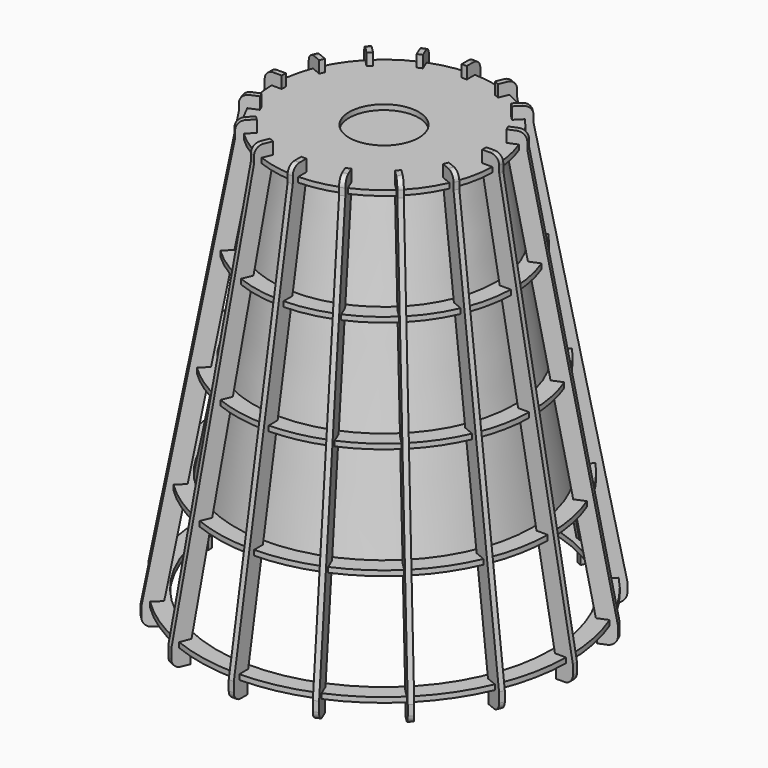
from build123d import *

# Parameters (mm, degrees)
F6_R      = 20.5
F7_DEPTH  = 3
F8_R      = 65.833
F9_DEPTH  = 3
F10_R     = 76.667
F11_DEPTH = 3
F12_R     = 87.5
F13_DEPTH = 3
F14_R     = 98.333
F15_DEPTH = 3
F17_DEPTH = 1.5
F18_COUNT = 16


with BuildPart() as f5:
    # F4 (on Front) → F5 (revolve)
    with BuildSketch(Plane.XZ):
        Polygon((0, 60), (-55, 60), (-65.833333, 0), (0, 0), align=None)
        Polygon((0, 0), (-65.833333, 0), (-76.666667, -60), (0, -60), align=None)
        Polygon((0, -60), (-76.666667, -60), (-87.5, -120), (0, -120), align=None)
    revolve(axis=Axis((0, 0, -30), (0, 0, -1)))


with BuildPart() as f7:
    # F6 (on offset) → F7 (new body)
    with BuildSketch(Plane.XY.offset(60)):
        with BuildLine():
            Line((-61.984921, -1.4), (-64.984921, -1.4))
            ThreePointArc((-64.984921, -1.4), (-63.751043, -12.680871), (-60.573996, -23.575221))
            Line((-60.573996, -23.575221), (-57.802357, -22.427171))
            Line((-57.802357, -22.427171), (-56.730843, -25.014034))
            Line((-56.730843, -25.014034), (-59.502482, -26.162084))
            ThreePointArc((-59.502482, -26.162084), (-54.045525, -36.112065), (-46.941228, -44.961329))
            Line((-46.941228, -44.961329), (-44.819908, -42.840009))
            Line((-44.819908, -42.840009), (-42.840009, -44.819908))
            Line((-42.840009, -44.819908), (-44.961329, -46.941228))
            ThreePointArc((-44.961329, -46.941228), (-36.112065, -54.045525), (-26.162084, -59.502482))
            Line((-26.162084, -59.502482), (-25.014034, -56.730843))
            Line((-25.014034, -56.730843), (-22.427171, -57.802357))
            Line((-22.427171, -57.802357), (-23.575221, -60.573996))
            ThreePointArc((-23.575221, -60.573996), (-12.680871, -63.751043), (-1.4, -64.984921))
            Line((-1.4, -64.984921), (-1.4, -61.984921))
            Line((-1.4, -61.984921), (1.4, -61.984921))
            Line((1.4, -61.984921), (1.4, -64.984921))
            ThreePointArc((1.4, -64.984921), (12.680871, -63.751043), (23.575221, -60.573996))
            Line((23.575221, -60.573996), (22.427171, -57.802357))
            Line((22.427171, -57.802357), (25.014034, -56.730843))
            Line((25.014034, -56.730843), (26.162084, -59.502482))
            ThreePointArc((26.162084, -59.502482), (36.112065, -54.045525), (44.961329, -46.941228))
            Line((44.961329, -46.941228), (42.840009, -44.819908))
            Line((42.840009, -44.819908), (44.819908, -42.840009))
            Line((44.819908, -42.840009), (46.941228, -44.961329))
            ThreePointArc((46.941228, -44.961329), (54.045525, -36.112065), (59.502482, -26.162084))
            Line((59.502482, -26.162084), (56.730843, -25.014034))
            Line((56.730843, -25.014034), (57.802357, -22.427171))
            Line((57.802357, -22.427171), (60.573996, -23.575221))
            ThreePointArc((60.573996, -23.575221), (63.751043, -12.680871), (64.984921, -1.4))
            Line((64.984921, -1.4), (61.984921, -1.4))
            Line((61.984921, -1.4), (61.984921, 1.4))
            Line((61.984921, 1.4), (64.984921, 1.4))
            ThreePointArc((64.984921, 1.4), (63.751043, 12.680871), (60.573996, 23.575221))
            Line((60.573996, 23.575221), (57.802357, 22.427171))
            Line((57.802357, 22.427171), (56.730843, 25.014034))
            Line((56.730843, 25.014034), (59.502482, 26.162084))
            ThreePointArc((59.502482, 26.162084), (54.045525, 36.112065), (46.941228, 44.961329))
            Line((46.941228, 44.961329), (44.819908, 42.840009))
            Line((44.819908, 42.840009), (42.840009, 44.819908))
            Line((42.840009, 44.819908), (44.961329, 46.941228))
            ThreePointArc((44.961329, 46.941228), (36.112065, 54.045525), (26.162084, 59.502482))
            Line((26.162084, 59.502482), (25.014034, 56.730843))
            Line((25.014034, 56.730843), (22.427171, 57.802357))
            Line((22.427171, 57.802357), (23.575221, 60.573996))
            ThreePointArc((23.575221, 60.573996), (12.680871, 63.751043), (1.4, 64.984921))
            Line((1.4, 64.984921), (1.4, 61.984921))
            Line((1.4, 61.984921), (-1.4, 61.984921))
            Line((-1.4, 61.984921), (-1.4, 64.984921))
            ThreePointArc((-1.4, 64.984921), (-12.680871, 63.751043), (-23.575221, 60.573996))
            Line((-23.575221, 60.573996), (-22.427171, 57.802357))
            Line((-22.427171, 57.802357), (-25.014034, 56.730843))
            Line((-25.014034, 56.730843), (-26.162084, 59.502482))
            ThreePointArc((-26.162084, 59.502482), (-36.112065, 54.045525), (-44.961329, 46.941228))
            Line((-44.961329, 46.941228), (-42.840009, 44.819908))
            Line((-42.840009, 44.819908), (-44.819908, 42.840009))
            Line((-44.819908, 42.840009), (-46.941228, 44.961329))
            ThreePointArc((-46.941228, 44.961329), (-54.045525, 36.112065), (-59.502482, 26.162084))
            Line((-59.502482, 26.162084), (-56.730843, 25.014034))
            Line((-56.730843, 25.014034), (-57.802357, 22.427171))
            Line((-57.802357, 22.427171), (-60.573996, 23.575221))
            ThreePointArc((-60.573996, 23.575221), (-63.751043, 12.680871), (-64.984921, 1.4))
            Line((-64.984921, 1.4), (-61.984921, 1.4))
            Line((-61.984921, 1.4), (-61.984921, -1.4))
        make_face()
        Circle(F6_R, mode=Mode.SUBTRACT)
    extrude(amount=F7_DEPTH)


with BuildPart() as f9:
    # F8 (on Top) → F9 (new body)
    with BuildSketch(Plane.XY):
        with BuildLine():
            Line((-72.820076, -1.4), (-75.820076, -1.4))
            ThreePointArc((-75.820076, -1.4), (-74.37589, -14.794284), (-70.584373, -27.721655))
            Line((-70.584373, -27.721655), (-67.812734, -26.573605))
            Line((-67.812734, -26.573605), (-66.741221, -29.160468))
            Line((-66.741221, -29.160468), (-69.512859, -30.308518))
            ThreePointArc((-69.512859, -30.308518), (-63.052835, -42.130557), (-54.602839, -52.62294))
            Line((-54.602839, -52.62294), (-52.481519, -50.50162))
            Line((-52.481519, -50.50162), (-50.50162, -52.481519))
            Line((-50.50162, -52.481519), (-52.62294, -54.602839))
            ThreePointArc((-52.62294, -54.602839), (-42.130557, -63.052835), (-30.308518, -69.512859))
            Line((-30.308518, -69.512859), (-29.160468, -66.741221))
            Line((-29.160468, -66.741221), (-26.573605, -67.812734))
            Line((-26.573605, -67.812734), (-27.721655, -70.584373))
            ThreePointArc((-27.721655, -70.584373), (-14.794284, -74.37589), (-1.4, -75.820076))
            Line((-1.4, -75.820076), (-1.4, -72.820076))
            Line((-1.4, -72.820076), (1.4, -72.820076))
            Line((1.4, -72.820076), (1.4, -75.820076))
            ThreePointArc((1.4, -75.820076), (14.794284, -74.37589), (27.721655, -70.584373))
            Line((27.721655, -70.584373), (26.573605, -67.812734))
            Line((26.573605, -67.812734), (29.160468, -66.741221))
            Line((29.160468, -66.741221), (30.308518, -69.512859))
            ThreePointArc((30.308518, -69.512859), (42.130557, -63.052835), (52.62294, -54.602839))
            Line((52.62294, -54.602839), (50.50162, -52.481519))
            Line((50.50162, -52.481519), (52.481519, -50.50162))
            Line((52.481519, -50.50162), (54.602839, -52.62294))
            ThreePointArc((54.602839, -52.62294), (63.052835, -42.130557), (69.512859, -30.308518))
            Line((69.512859, -30.308518), (66.741221, -29.160468))
            Line((66.741221, -29.160468), (67.812734, -26.573605))
            Line((67.812734, -26.573605), (70.584373, -27.721655))
            ThreePointArc((70.584373, -27.721655), (74.37589, -14.794284), (75.820076, -1.4))
            Line((75.820076, -1.4), (72.820076, -1.4))
            Line((72.820076, -1.4), (72.820076, 1.4))
            Line((72.820076, 1.4), (75.820076, 1.4))
            ThreePointArc((75.820076, 1.4), (74.37589, 14.794284), (70.584373, 27.721655))
            Line((70.584373, 27.721655), (67.812734, 26.573605))
            Line((67.812734, 26.573605), (66.741221, 29.160468))
            Line((66.741221, 29.160468), (69.512859, 30.308518))
            ThreePointArc((69.512859, 30.308518), (63.052835, 42.130557), (54.602839, 52.62294))
            Line((54.602839, 52.62294), (52.481519, 50.50162))
            Line((52.481519, 50.50162), (50.50162, 52.481519))
            Line((50.50162, 52.481519), (52.62294, 54.602839))
            ThreePointArc((52.62294, 54.602839), (42.130557, 63.052835), (30.308518, 69.512859))
            Line((30.308518, 69.512859), (29.160468, 66.741221))
            Line((29.160468, 66.741221), (26.573605, 67.812734))
            Line((26.573605, 67.812734), (27.721655, 70.584373))
            ThreePointArc((27.721655, 70.584373), (14.794284, 74.37589), (1.4, 75.820076))
            Line((1.4, 75.820076), (1.4, 72.820076))
            Line((1.4, 72.820076), (-1.4, 72.820076))
            Line((-1.4, 72.820076), (-1.4, 75.820076))
            ThreePointArc((-1.4, 75.820076), (-14.794284, 74.37589), (-27.721655, 70.584373))
            Line((-27.721655, 70.584373), (-26.573605, 67.812734))
            Line((-26.573605, 67.812734), (-29.160468, 66.741221))
            Line((-29.160468, 66.741221), (-30.308518, 69.512859))
            ThreePointArc((-30.308518, 69.512859), (-42.130557, 63.052835), (-52.62294, 54.602839))
            Line((-52.62294, 54.602839), (-50.50162, 52.481519))
            Line((-50.50162, 52.481519), (-52.481519, 50.50162))
            Line((-52.481519, 50.50162), (-54.602839, 52.62294))
            ThreePointArc((-54.602839, 52.62294), (-63.052835, 42.130557), (-69.512859, 30.308518))
            Line((-69.512859, 30.308518), (-66.741221, 29.160468))
            Line((-66.741221, 29.160468), (-67.812734, 26.573605))
            Line((-67.812734, 26.573605), (-70.584373, 27.721655))
            ThreePointArc((-70.584373, 27.721655), (-74.37589, 14.794284), (-75.820076, 1.4))
            Line((-75.820076, 1.4), (-72.820076, 1.4))
            Line((-72.820076, 1.4), (-72.820076, -1.4))
        make_face()
        Circle(F8_R, mode=Mode.SUBTRACT)
    extrude(amount=F9_DEPTH)


with BuildPart() as f11:
    # F10 (on offset) → F11 (new body)
    with BuildSketch(Plane.XY.offset(-60)):
        with BuildLine():
            Line((-83.666973, -1.4), (-86.655692, -1.4))
            ThreePointArc((-86.655692, -1.4), (-85.001718, -16.907893), (-80.595177, -31.868266))
            Line((-80.595177, -31.868266), (-77.833961, -30.724533))
            Line((-77.833961, -30.724533), (-76.762448, -33.311396))
            Line((-76.762448, -33.311396), (-79.523663, -34.455129))
            ThreePointArc((-79.523663, -34.455129), (-72.060977, -48.149605), (-62.264777, -60.284878))
            Line((-62.264777, -60.284878), (-60.151434, -58.171535))
            Line((-60.151434, -58.171535), (-58.171535, -60.151434))
            Line((-58.171535, -60.151434), (-60.284878, -62.264777))
            ThreePointArc((-60.284878, -62.264777), (-48.149605, -72.060977), (-34.455129, -79.523663))
            Line((-34.455129, -79.523663), (-33.311396, -76.762448))
            Line((-33.311396, -76.762448), (-30.724533, -77.833961))
            Line((-30.724533, -77.833961), (-31.868266, -80.595177))
            ThreePointArc((-31.868266, -80.595177), (-16.907893, -85.001718), (-1.4, -86.655692))
            Line((-1.4, -86.655692), (-1.4, -83.666973))
            Line((-1.4, -83.666973), (1.4, -83.666973))
            Line((1.4, -83.666973), (1.4, -86.655692))
            ThreePointArc((1.4, -86.655692), (16.907893, -85.001718), (31.868266, -80.595177))
            Line((31.868266, -80.595177), (30.724533, -77.833961))
            Line((30.724533, -77.833961), (33.311396, -76.762448))
            Line((33.311396, -76.762448), (34.455129, -79.523663))
            ThreePointArc((34.455129, -79.523663), (48.149605, -72.060977), (60.284878, -62.264777))
            Line((60.284878, -62.264777), (58.171535, -60.151434))
            Line((58.171535, -60.151434), (60.151434, -58.171535))
            Line((60.151434, -58.171535), (62.264777, -60.284878))
            ThreePointArc((62.264777, -60.284878), (72.060977, -48.149605), (79.523663, -34.455129))
            Line((79.523663, -34.455129), (76.762448, -33.311396))
            Line((76.762448, -33.311396), (77.833961, -30.724533))
            Line((77.833961, -30.724533), (80.595177, -31.868266))
            ThreePointArc((80.595177, -31.868266), (85.001718, -16.907893), (86.655692, -1.4))
            Line((86.655692, -1.4), (83.666973, -1.4))
            Line((83.666973, -1.4), (83.666973, 1.4))
            Line((83.666973, 1.4), (86.655692, 1.4))
            ThreePointArc((86.655692, 1.4), (85.001718, 16.907893), (80.595177, 31.868266))
            Line((80.595177, 31.868266), (77.833961, 30.724533))
            Line((77.833961, 30.724533), (76.762448, 33.311396))
            Line((76.762448, 33.311396), (79.523663, 34.455129))
            ThreePointArc((79.523663, 34.455129), (72.060977, 48.149605), (62.264777, 60.284878))
            Line((62.264777, 60.284878), (60.151434, 58.171535))
            Line((60.151434, 58.171535), (58.171535, 60.151434))
            Line((58.171535, 60.151434), (60.284878, 62.264777))
            ThreePointArc((60.284878, 62.264777), (48.149605, 72.060977), (34.455129, 79.523663))
            Line((34.455129, 79.523663), (33.311396, 76.762448))
            Line((33.311396, 76.762448), (30.724533, 77.833961))
            Line((30.724533, 77.833961), (31.868266, 80.595177))
            ThreePointArc((31.868266, 80.595177), (16.907893, 85.001718), (1.4, 86.655692))
            Line((1.4, 86.655692), (1.4, 83.666973))
            Line((1.4, 83.666973), (-1.4, 83.666973))
            Line((-1.4, 83.666973), (-1.4, 86.655692))
            ThreePointArc((-1.4, 86.655692), (-16.907893, 85.001718), (-31.868266, 80.595177))
            Line((-31.868266, 80.595177), (-30.724533, 77.833961))
            Line((-30.724533, 77.833961), (-33.311396, 76.762448))
            Line((-33.311396, 76.762448), (-34.455129, 79.523663))
            ThreePointArc((-34.455129, 79.523663), (-48.149605, 72.060977), (-60.284878, 62.264777))
            Line((-60.284878, 62.264777), (-58.171535, 60.151434))
            Line((-58.171535, 60.151434), (-60.151434, 58.171535))
            Line((-60.151434, 58.171535), (-62.264777, 60.284878))
            ThreePointArc((-62.264777, 60.284878), (-72.060977, 48.149605), (-79.523663, 34.455129))
            Line((-79.523663, 34.455129), (-76.762448, 33.311396))
            Line((-76.762448, 33.311396), (-77.833961, 30.724533))
            Line((-77.833961, 30.724533), (-80.595177, 31.868266))
            ThreePointArc((-80.595177, 31.868266), (-85.001718, 16.907893), (-86.655692, 1.4))
            Line((-86.655692, 1.4), (-83.666973, 1.4))
            Line((-83.666973, 1.4), (-83.666973, -1.4))
        make_face()
        Circle(F10_R, mode=Mode.SUBTRACT)
    extrude(amount=F11_DEPTH)


with BuildPart() as f13:
    # F12 (on offset) → F13 (new body)
    with BuildSketch(Plane.XY.offset(-120)):
        with BuildLine():
            Line((-94.489948, -1.4), (-97.489948, -1.4))
            ThreePointArc((-97.489948, -1.4), (-95.626565, -19.021306), (-90.604725, -36.014357))
            Line((-90.604725, -36.014357), (-87.833086, -34.866306))
            Line((-87.833086, -34.866306), (-86.761572, -37.453169))
            Line((-86.761572, -37.453169), (-89.533211, -38.601219))
            ThreePointArc((-89.533211, -38.601219), (-81.068287, -54.168098), (-69.925753, -67.945854))
            Line((-69.925753, -67.945854), (-67.804433, -65.824534))
            Line((-67.804433, -65.824534), (-65.824534, -67.804433))
            Line((-65.824534, -67.804433), (-67.945854, -69.925753))
            ThreePointArc((-67.945854, -69.925753), (-54.168098, -81.068287), (-38.601219, -89.533211))
            Line((-38.601219, -89.533211), (-37.453169, -86.761572))
            Line((-37.453169, -86.761572), (-34.866306, -87.833086))
            Line((-34.866306, -87.833086), (-36.014357, -90.604725))
            ThreePointArc((-36.014357, -90.604725), (-19.021306, -95.626565), (-1.4, -97.489948))
            Line((-1.4, -97.489948), (-1.4, -94.489948))
            Line((-1.4, -94.489948), (1.4, -94.489948))
            Line((1.4, -94.489948), (1.4, -97.489948))
            ThreePointArc((1.4, -97.489948), (19.021306, -95.626565), (36.014357, -90.604725))
            Line((36.014357, -90.604725), (34.866306, -87.833086))
            Line((34.866306, -87.833086), (37.453169, -86.761572))
            Line((37.453169, -86.761572), (38.601219, -89.533211))
            ThreePointArc((38.601219, -89.533211), (54.168098, -81.068287), (67.945854, -69.925753))
            Line((67.945854, -69.925753), (65.824534, -67.804433))
            Line((65.824534, -67.804433), (67.804433, -65.824534))
            Line((67.804433, -65.824534), (69.925753, -67.945854))
            ThreePointArc((69.925753, -67.945854), (81.068287, -54.168098), (89.533211, -38.601219))
            Line((89.533211, -38.601219), (86.761572, -37.453169))
            Line((86.761572, -37.453169), (87.833086, -34.866306))
            Line((87.833086, -34.866306), (90.604725, -36.014357))
            ThreePointArc((90.604725, -36.014357), (95.626565, -19.021306), (97.489948, -1.4))
            Line((97.489948, -1.4), (94.489948, -1.4))
            Line((94.489948, -1.4), (94.489948, 1.4))
            Line((94.489948, 1.4), (97.489948, 1.4))
            ThreePointArc((97.489948, 1.4), (95.626565, 19.021306), (90.604725, 36.014357))
            Line((90.604725, 36.014357), (87.833086, 34.866306))
            Line((87.833086, 34.866306), (86.761572, 37.453169))
            Line((86.761572, 37.453169), (89.533211, 38.601219))
            ThreePointArc((89.533211, 38.601219), (81.068287, 54.168098), (69.925753, 67.945854))
            Line((69.925753, 67.945854), (67.804433, 65.824534))
            Line((67.804433, 65.824534), (65.824534, 67.804433))
            Line((65.824534, 67.804433), (67.945854, 69.925753))
            ThreePointArc((67.945854, 69.925753), (54.168098, 81.068287), (38.601219, 89.533211))
            Line((38.601219, 89.533211), (37.453169, 86.761572))
            Line((37.453169, 86.761572), (34.866306, 87.833086))
            Line((34.866306, 87.833086), (36.014357, 90.604725))
            ThreePointArc((36.014357, 90.604725), (19.021306, 95.626565), (1.4, 97.489948))
            Line((1.4, 97.489948), (1.4, 94.489948))
            Line((1.4, 94.489948), (-1.4, 94.489948))
            Line((-1.4, 94.489948), (-1.4, 97.489948))
            ThreePointArc((-1.4, 97.489948), (-19.021306, 95.626565), (-36.014357, 90.604725))
            Line((-36.014357, 90.604725), (-34.866306, 87.833086))
            Line((-34.866306, 87.833086), (-37.453169, 86.761572))
            Line((-37.453169, 86.761572), (-38.601219, 89.533211))
            ThreePointArc((-38.601219, 89.533211), (-54.168098, 81.068287), (-67.945854, 69.925753))
            Line((-67.945854, 69.925753), (-65.824534, 67.804433))
            Line((-65.824534, 67.804433), (-67.804433, 65.824534))
            Line((-67.804433, 65.824534), (-69.925753, 67.945854))
            ThreePointArc((-69.925753, 67.945854), (-81.068287, 54.168098), (-89.533211, 38.601219))
            Line((-89.533211, 38.601219), (-86.761572, 37.453169))
            Line((-86.761572, 37.453169), (-87.833086, 34.866306))
            Line((-87.833086, 34.866306), (-90.604725, 36.014357))
            ThreePointArc((-90.604725, 36.014357), (-95.626565, 19.021306), (-97.489948, 1.4))
            Line((-97.489948, 1.4), (-94.489948, 1.4))
            Line((-94.489948, 1.4), (-94.489948, -1.4))
        make_face()
        Circle(F12_R, mode=Mode.SUBTRACT)
    extrude(amount=F13_DEPTH)


with BuildPart() as f15:
    # F14 (on offset) → F15 (new body)
    with BuildSketch(Plane.XY.offset(-180)):
        with BuildLine():
            Line((-105.323953, -1.4), (-108.323953, -1.4))
            ThreePointArc((-108.323953, -1.4), (-106.251412, -21.13472), (-100.61404, -40.160351))
            Line((-100.61404, -40.160351), (-97.842402, -39.012301))
            Line((-97.842402, -39.012301), (-96.770888, -41.599163))
            Line((-96.770888, -41.599163), (-99.542527, -42.747214))
            ThreePointArc((-99.542527, -42.747214), (-90.075598, -60.18659), (-77.586552, -75.606653))
            Line((-77.586552, -75.606653), (-75.465231, -73.485332))
            Line((-75.465231, -73.485332), (-73.485332, -75.465231))
            Line((-73.485332, -75.465231), (-75.606653, -77.586552))
            ThreePointArc((-75.606653, -77.586552), (-60.18659, -90.075598), (-42.747214, -99.542527))
            Line((-42.747214, -99.542527), (-41.599163, -96.770888))
            Line((-41.599163, -96.770888), (-39.012301, -97.842402))
            Line((-39.012301, -97.842402), (-40.160351, -100.61404))
            ThreePointArc((-40.160351, -100.61404), (-21.13472, -106.251412), (-1.4, -108.323953))
            Line((-1.4, -108.323953), (-1.4, -105.323953))
            Line((-1.4, -105.323953), (1.4, -105.323953))
            Line((1.4, -105.323953), (1.4, -108.323953))
            ThreePointArc((1.4, -108.323953), (21.13472, -106.251412), (40.160351, -100.61404))
            Line((40.160351, -100.61404), (39.012301, -97.842402))
            Line((39.012301, -97.842402), (41.599163, -96.770888))
            Line((41.599163, -96.770888), (42.747214, -99.542527))
            ThreePointArc((42.747214, -99.542527), (60.18659, -90.075598), (75.606653, -77.586552))
            Line((75.606653, -77.586552), (73.485332, -75.465231))
            Line((73.485332, -75.465231), (75.465231, -73.485332))
            Line((75.465231, -73.485332), (77.586552, -75.606653))
            ThreePointArc((77.586552, -75.606653), (90.075598, -60.18659), (99.542527, -42.747214))
            Line((99.542527, -42.747214), (96.770888, -41.599163))
            Line((96.770888, -41.599163), (97.842402, -39.012301))
            Line((97.842402, -39.012301), (100.61404, -40.160351))
            ThreePointArc((100.61404, -40.160351), (106.251412, -21.13472), (108.323953, -1.4))
            Line((108.323953, -1.4), (105.323953, -1.4))
            Line((105.323953, -1.4), (105.323953, 1.4))
            Line((105.323953, 1.4), (108.323953, 1.4))
            ThreePointArc((108.323953, 1.4), (106.251412, 21.13472), (100.61404, 40.160351))
            Line((100.61404, 40.160351), (97.842402, 39.012301))
            Line((97.842402, 39.012301), (96.770888, 41.599163))
            Line((96.770888, 41.599163), (99.542527, 42.747214))
            ThreePointArc((99.542527, 42.747214), (90.075598, 60.18659), (77.586552, 75.606653))
            Line((77.586552, 75.606653), (75.465231, 73.485332))
            Line((75.465231, 73.485332), (73.485332, 75.465231))
            Line((73.485332, 75.465231), (75.606653, 77.586552))
            ThreePointArc((75.606653, 77.586552), (60.18659, 90.075598), (42.747214, 99.542527))
            Line((42.747214, 99.542527), (41.599163, 96.770888))
            Line((41.599163, 96.770888), (39.012301, 97.842402))
            Line((39.012301, 97.842402), (40.160351, 100.61404))
            ThreePointArc((40.160351, 100.61404), (21.13472, 106.251412), (1.4, 108.323953))
            Line((1.4, 108.323953), (1.4, 105.323953))
            Line((1.4, 105.323953), (-1.4, 105.323953))
            Line((-1.4, 105.323953), (-1.4, 108.323953))
            ThreePointArc((-1.4, 108.323953), (-21.13472, 106.251412), (-40.160351, 100.61404))
            Line((-40.160351, 100.61404), (-39.012301, 97.842402))
            Line((-39.012301, 97.842402), (-41.599163, 96.770888))
            Line((-41.599163, 96.770888), (-42.747214, 99.542527))
            ThreePointArc((-42.747214, 99.542527), (-60.18659, 90.075598), (-75.606653, 77.586552))
            Line((-75.606653, 77.586552), (-73.485332, 75.465231))
            Line((-73.485332, 75.465231), (-75.465231, 73.485332))
            Line((-75.465231, 73.485332), (-77.586552, 75.606653))
            ThreePointArc((-77.586552, 75.606653), (-90.075598, 60.18659), (-99.542527, 42.747214))
            Line((-99.542527, 42.747214), (-96.770888, 41.599163))
            Line((-96.770888, 41.599163), (-97.842402, 39.012301))
            Line((-97.842402, 39.012301), (-100.61404, 40.160351))
            ThreePointArc((-100.61404, 40.160351), (-106.251412, 21.13472), (-108.323953, 1.4))
            Line((-108.323953, 1.4), (-105.323953, 1.4))
            Line((-105.323953, 1.4), (-105.323953, -1.4))
        make_face()
        Circle(F14_R, mode=Mode.SUBTRACT)
    extrude(amount=F15_DEPTH)


with BuildPart() as f17:
    # F16 (on Front) → F17 (new body, symmetric)
    with BuildSketch(Plane.XZ):
        with BuildLine():
            Line((-69.312778, 2.8), (-58.985, 60))
            Line((-58.985, 60), (-61.985, 60))
            Line((-61.985, 60), (-61.985, 62.8))
            Line((-61.985, 62.8), (-58.985, 62.8))
            Line((-58.985, 62.8), (-58.985, 70))
            Line((-58.985, 70), (-63.985, 70))
            ThreePointArc((-63.985, 70), (-67.520534, 68.535534), (-68.985, 65))
            Line((-68.985, 65), (-68.985, 60.895538))
            Line((-68.985, 60.895538), (-112.318333, -179.104462))
            Line((-112.318333, -179.104462), (-112.318333, -185))
            ThreePointArc((-112.318333, -185), (-110.853867, -188.535534), (-107.318333, -190))
            Line((-107.318333, -190), (-102.318333, -190))
            Line((-102.318333, -190), (-102.318333, -180))
            Line((-102.318333, -180), (-105.318333, -180))
            Line((-105.318333, -180), (-105.318333, -177.2))
            Line((-105.318333, -177.2), (-101.812778, -177.2))
            Line((-101.812778, -177.2), (-91.485, -120))
            Line((-91.485, -120), (-94.485, -120))
            Line((-94.485, -120), (-94.485, -117.2))
            Line((-94.485, -117.2), (-90.979444, -117.2))
            Line((-90.979444, -117.2), (-80.651667, -60))
            Line((-80.651667, -60), (-83.651667, -60))
            Line((-83.651667, -60), (-83.651667, -57.2))
            Line((-83.651667, -57.2), (-80.146111, -57.2))
            Line((-80.146111, -57.2), (-69.818333, 0))
            Line((-69.818333, 0), (-72.818333, 0))
            Line((-72.818333, 0), (-72.818333, 2.8))
            Line((-72.818333, 2.8), (-69.312778, 2.8))
        make_face()
    extrude(amount=F17_DEPTH, both=True)


with BuildPart() as f18_1:
    # F18: instance of F17
    add(f17.part.rotate(Axis((0, 0, -30), (0, 0, -1)), 1 * 360 / F18_COUNT))


with BuildPart() as f18_2:
    # F18: instance of F17
    add(f17.part.rotate(Axis((0, 0, -30), (0, 0, -1)), 2 * 360 / F18_COUNT))


with BuildPart() as f18_3:
    # F18: instance of F17
    add(f17.part.rotate(Axis((0, 0, -30), (0, 0, -1)), 3 * 360 / F18_COUNT))


with BuildPart() as f18_4:
    # F18: instance of F17
    add(f17.part.rotate(Axis((0, 0, -30), (0, 0, -1)), 4 * 360 / F18_COUNT))


with BuildPart() as f18_5:
    # F18: instance of F17
    add(f17.part.rotate(Axis((0, 0, -30), (0, 0, -1)), 5 * 360 / F18_COUNT))


with BuildPart() as f18_6:
    # F18: instance of F17
    add(f17.part.rotate(Axis((0, 0, -30), (0, 0, -1)), 6 * 360 / F18_COUNT))


with BuildPart() as f18_7:
    # F18: instance of F17
    add(f17.part.rotate(Axis((0, 0, -30), (0, 0, -1)), 7 * 360 / F18_COUNT))


with BuildPart() as f18_8:
    # F18: instance of F17
    add(f17.part.rotate(Axis((0, 0, -30), (0, 0, -1)), 8 * 360 / F18_COUNT))


with BuildPart() as f18_9:
    # F18: instance of F17
    add(f17.part.rotate(Axis((0, 0, -30), (0, 0, -1)), 9 * 360 / F18_COUNT))


with BuildPart() as f18_10:
    # F18: instance of F17
    add(f17.part.rotate(Axis((0, 0, -30), (0, 0, -1)), 10 * 360 / F18_COUNT))


with BuildPart() as f18_11:
    # F18: instance of F17
    add(f17.part.rotate(Axis((0, 0, -30), (0, 0, -1)), 11 * 360 / F18_COUNT))


with BuildPart() as f18_12:
    # F18: instance of F17
    add(f17.part.rotate(Axis((0, 0, -30), (0, 0, -1)), 12 * 360 / F18_COUNT))


with BuildPart() as f18_13:
    # F18: instance of F17
    add(f17.part.rotate(Axis((0, 0, -30), (0, 0, -1)), 13 * 360 / F18_COUNT))


with BuildPart() as f18_14:
    # F18: instance of F17
    add(f17.part.rotate(Axis((0, 0, -30), (0, 0, -1)), 14 * 360 / F18_COUNT))


with BuildPart() as f18_15:
    # F18: instance of F17
    add(f17.part.rotate(Axis((0, 0, -30), (0, 0, -1)), 15 * 360 / F18_COUNT))


solid = Compound([f5.part, f7.part, f9.part, f11.part, f13.part, f15.part, f17.part, f18_1.part, f18_2.part, f18_3.part, f18_4.part, f18_5.part, f18_6.part, f18_7.part, f18_8.part, f18_9.part, f18_10.part, f18_11.part, f18_12.part, f18_13.part, f18_14.part, f18_15.part])
